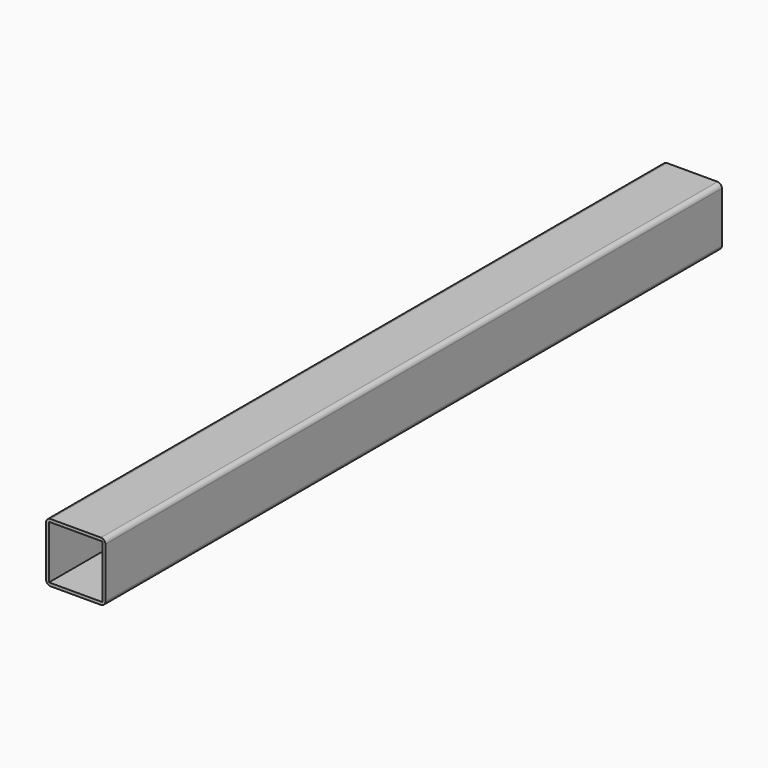
from build123d import *

# Parameters (mm, degrees)
F0_W     = 36
F0_H     = 36
F1_DEPTH = 260


with BuildPart() as f1:
    # F0 (on Front) → F1 (new body, symmetric)
    with BuildSketch(Plane.XZ):
        with BuildLine():
            ThreePointArc((20, 17), (19.12132, 19.12132), (17, 20))
            Line((17, 20), (-17, 20))
            ThreePointArc((-17, 20), (-19.12132, 19.12132), (-20, 17))
            Line((-20, 17), (-20, -17))
            ThreePointArc((-20, -17), (-19.12132, -19.12132), (-17, -20))
            Line((-17, -20), (17, -20))
            ThreePointArc((17, -20), (19.12132, -19.12132), (20, -17))
            Line((20, -17), (20, 17))
        make_face()
        Rectangle(F0_W, F0_H, mode=Mode.SUBTRACT)
    extrude(amount=F1_DEPTH, both=True)


solid = f1.part
